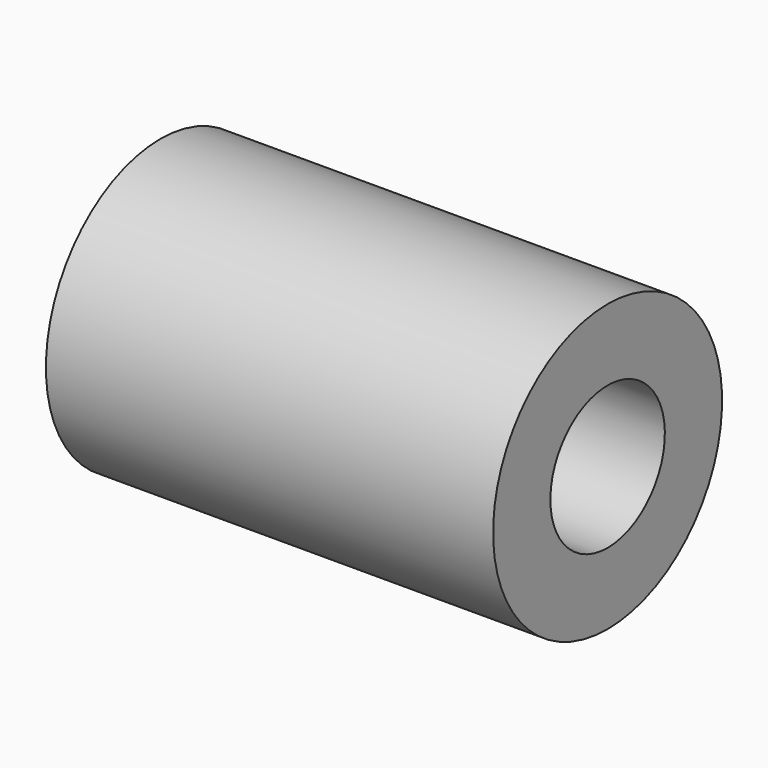
from build123d import *

# Parameters (mm, degrees)
LM8UU_CEN_X_Y_INT_R           = 4
LM8UU_CEN_X_Y_INT_DEPTH       = 27
LM8UU_CEN_X_Y_INT_PITCH_ANGLE = 90
LM8UU_CEN_X_Y_EXT_R           = 8
LM8UU_CEN_X_Y_EXT_DEPTH       = 25
LM8UU_CEN_X_Y_EXT_PITCH_ANGLE = 90


with BuildPart() as lm8uu_cen_x_y_int:
    # lm8uu_cen_x_y_int → lm8uu_cen_x_y_int (new body)
    with BuildSketch(Plane.XY):
        Circle(LM8UU_CEN_X_Y_INT_R)
    extrude(amount=LM8UU_CEN_X_Y_INT_DEPTH)


with BuildPart() as lm8uu_cen_x_y_int_1:
    # lm8uu_cen_x_y_int pitch: moved
    add(lm8uu_cen_x_y_int.part.rotate(Axis((0, 0, 0), (0, 1, 0)), LM8UU_CEN_X_Y_INT_PITCH_ANGLE))


with BuildPart() as lm8uu_cen_x_y_int_2:
    # lm8uu_cen_x_y_int placement: moved
    add(lm8uu_cen_x_y_int_1.part.moved(Location((-13.5, 0, 0))))


with BuildPart() as obj1:
    # lm8uu_cen_x_y_ext → lm8uu_cen_x_y_ext (new body)
    with BuildSketch(Plane.XY):
        Circle(LM8UU_CEN_X_Y_EXT_R)
    extrude(amount=LM8UU_CEN_X_Y_EXT_DEPTH)


with BuildPart() as obj1_1:
    # lm8uu_cen_x_y_ext pitch: moved
    add(obj1.part.rotate(Axis((0, 0, 0), (0, 1, 0)), LM8UU_CEN_X_Y_EXT_PITCH_ANGLE))


with BuildPart() as obj1_2:
    # lm8uu_cen_x_y_ext placement: moved
    add(obj1_1.part.moved(Location((-12.5, 0, 0))))

    # lm8uu_cen_x_y: cut lm8uu_cen_x_y_int
    add(lm8uu_cen_x_y_int_2.part, mode=Mode.SUBTRACT)


with BuildPart() as obj1_3:
    # lm8uu_cen_x_y placement: moved
    add(obj1_2.part.moved(Location((17.25, 32.5, 0))))


with BuildPart() as obj1_4:
    # Clone029 placement: moved
    add(obj1_3.part.moved(Location((0, -65, 0))))


solid = obj1_4.part
